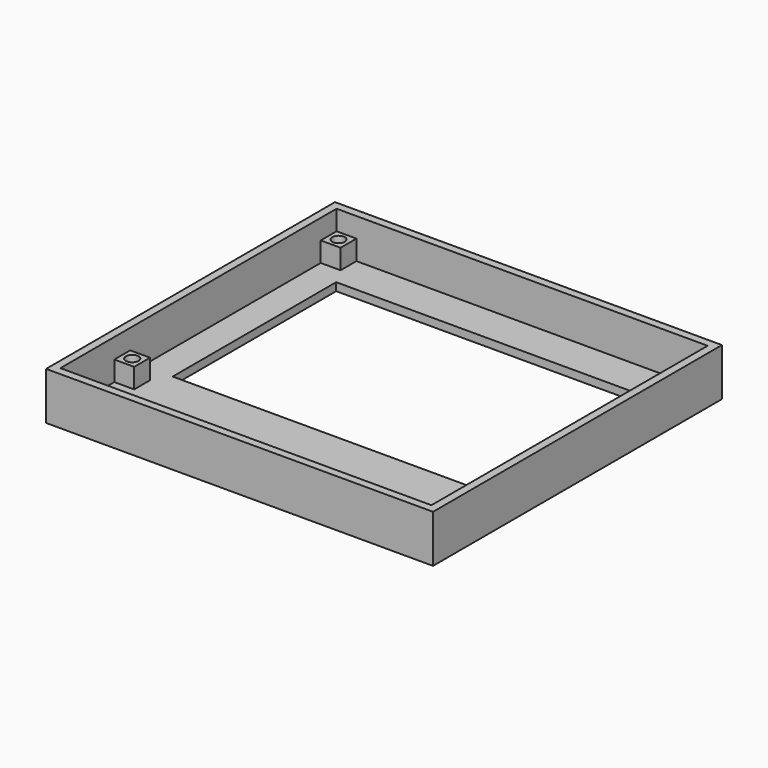
from build123d import *

# Parameters (mm, degrees)
SKETCH001_W     = 97.5
SKETCH001_H     = 91
PAD_DEPTH       = 12
SKETCH_W        = 93.5
SKETCH_H        = 87
POCKET_DEPTH    = 10
SKETCH002_W     = 5
SKETCH002_H     = 5
SKETCH002_R     = 1.6
PAD001_DEPTH    = 10
POCKET001_DEPTH = 5
SKETCH003_W     = 78.5
SKETCH003_H     = 51.5
POCKET002_DEPTH = 12.001
SKETCH004_W     = 45
SKETCH004_H     = 12.5
POCKET003_DEPTH = 12.001
SKETCH005_R     = 1.6
POCKET004_DEPTH = 12.001


with BuildPart() as part:
    # Sketch001 → Pad (new body)
    with BuildSketch(Plane.XY):
        with Locations((0, -43.5)):
            Rectangle(SKETCH001_W, SKETCH001_H)
    extrude(amount=-PAD_DEPTH)

    # Sketch → Pocket (cut)
    with BuildSketch(Plane.XY):
        with Locations((0, -43.5)):
            Rectangle(SKETCH_W, SKETCH_H)
    extrude(amount=-POCKET_DEPTH, mode=Mode.SUBTRACT)

    # Sketch002 → Pad001 (join)
    with BuildSketch(Plane.XY):
        with Locations((-44.25, -2.5)):
            Rectangle(SKETCH002_W, SKETCH002_H)
        with Locations((-44.25, -2.5)):
            Circle(SKETCH002_R, mode=Mode.SUBTRACT)
        with Locations((-44.25, -67.5)):
            Rectangle(SKETCH002_W, SKETCH002_H)
        with Locations((-44.25, -67.5)):
            Circle(SKETCH002_R, mode=Mode.SUBTRACT)
        with Locations((44.25, -67.5)):
            Rectangle(SKETCH002_W, SKETCH002_H)
        with Locations((44.25, -67.5)):
            Circle(SKETCH002_R, mode=Mode.SUBTRACT)
        with Locations((44.25, -2.5)):
            Rectangle(SKETCH002_W, SKETCH002_H)
        with Locations((44.25, -2.5)):
            Circle(SKETCH002_R, mode=Mode.SUBTRACT)
    extrude(amount=-PAD001_DEPTH)

    # Sketch → Pocket001 (cut)
    with BuildSketch(Plane.XY):
        with Locations((0, -43.5)):
            Rectangle(SKETCH_W, SKETCH_H)
    extrude(amount=-POCKET001_DEPTH, mode=Mode.SUBTRACT)

    # Sketch003 → Pocket002 (cut, through all)
    with BuildSketch(Plane.XY):
        with Locations((0, -35.25)):
            Rectangle(SKETCH003_W, SKETCH003_H)
    extrude(amount=-POCKET002_DEPTH, mode=Mode.SUBTRACT)

    # Sketch004 → Pocket003 (cut, through all)
    with BuildSketch(Plane.XY):
        with Locations((-21.25, -78.75)):
            Rectangle(SKETCH004_W, SKETCH004_H)
    extrude(amount=-POCKET003_DEPTH, mode=Mode.SUBTRACT)

    # Sketch005 → Pocket004 (cut, through all)
    with BuildSketch(Plane.XY):
        with Locations((-44.25, -2.5)):
            Circle(SKETCH005_R)
        with Locations((44.25, -2.5)):
            Circle(SKETCH005_R)
        with Locations((44.25, -67.5)):
            Circle(SKETCH005_R)
        with Locations((-44.25, -67.5)):
            Circle(SKETCH005_R)
    extrude(amount=-POCKET004_DEPTH, mode=Mode.SUBTRACT)


solid = part.part
